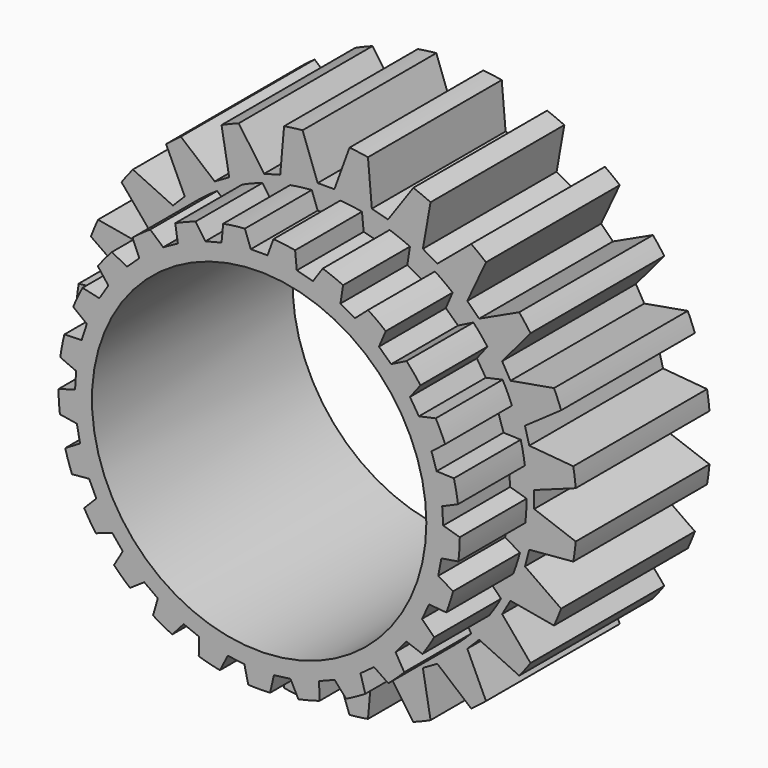
from build123d import *

# Parameters (mm, degrees)
F0_R     = 15
F0_R_2   = 10
F1_DEPTH = 10
F3_DEPTH = 25
F4_COUNT = 24
F2_R     = 12
F5_DEPTH = 5
F6_R     = 10
F7_DEPTH = 25
F8_DEPTH = 5
F9_COUNT = 25


with BuildPart() as f1:
    # F0 (on Front) → F1 (new body)
    with BuildSketch(Plane.XZ):
        Circle(F0_R)
        Circle(F0_R_2, mode=Mode.SUBTRACT)
    extrude(amount=-F1_DEPTH)

    # F2 (on face) → F3 (cut)
    with BuildSketch(Plane.XZ):
        with BuildLine():
            Line((-0.5, 12.4508496374), (0, 12.4508496374))
            Line((0, 12.4508496374), (0.5, 12.4508496374))
            Line((0.5, 12.4508496374), (1.4038518475, 14.934162179))
            ThreePointArc((1.4038518475, 14.934162179), (0, 15), (-1.4038518475, 14.934162179))
            Line((-1.4038518475, 14.934162179), (-0.5, 12.4508496374))
        make_face()
    f3 = extrude(amount=-F3_DEPTH, mode=Mode.SUBTRACT)

    # F4: F3 ×24 about axis
    f4_axis = Axis((0, 0, 0), (0, -1, 0))
    for i in range(1, F4_COUNT):
        add(f3.rotate(f4_axis, i * 360 / F4_COUNT), mode=Mode.SUBTRACT)

    # F2 (on face) → F5 (join)
    with BuildSketch(Plane.XZ):
        Circle(F2_R)
    extrude(amount=F5_DEPTH)

    # F6 (on face) → F7 (cut)
    with BuildSketch(Plane.XZ.offset(5)):
        Circle(F6_R)
    extrude(amount=-F7_DEPTH, mode=Mode.SUBTRACT)

    # F6 (on face) → F8 (cut)
    with BuildSketch(Plane.XZ.offset(5)):
        with BuildLine():
            Line((-0.5, 11), (0, 11))
            Line((0, 11), (0.5, 11))
            Line((0.5, 11), (0.8529237373, 11.969649999))
            ThreePointArc((0.8529237373, 11.969649999), (0, 12), (-0.8529237373, 11.969649999))
            Line((-0.8529237373, 11.969649999), (-0.5, 11))
        make_face()
    f8 = extrude(amount=-F8_DEPTH, mode=Mode.SUBTRACT)

    # F9: F8 ×25 about axis
    f9_axis = Axis((0, 0, 0), (0, 1, 0))
    for i in range(1, F9_COUNT):
        add(f8.rotate(f9_axis, i * 360 / F9_COUNT), mode=Mode.SUBTRACT)


solid = f1.part
